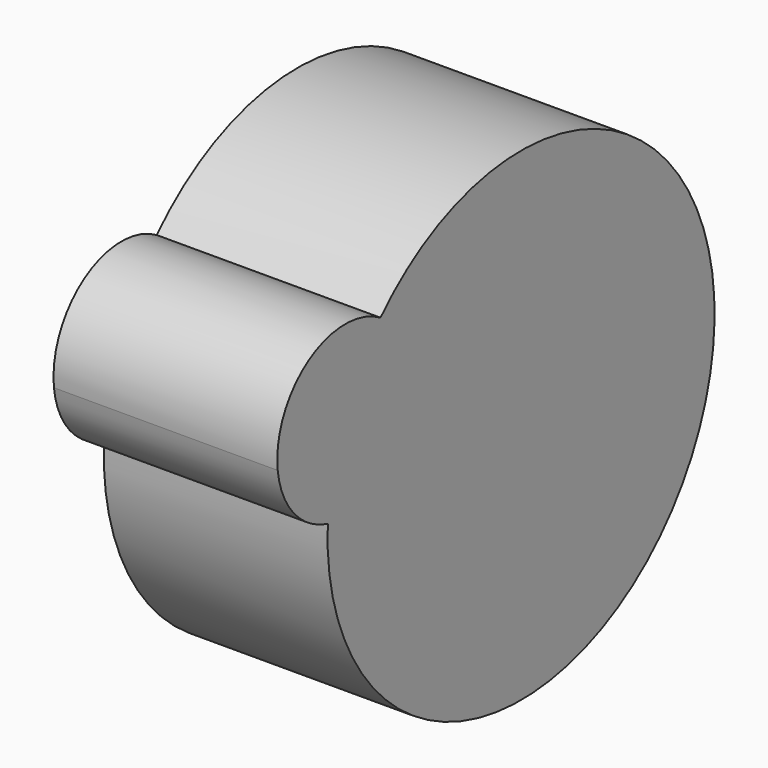
from build123d import *

# Parameters (mm, degrees)
F1_DEPTH = 1422.4


with BuildPart() as f1:
    # F0 (on Right) → F1 (new body)
    with BuildSketch(Plane.YZ):
        with BuildLine():
            ThreePointArc((352.683716, 983.357959), (-218.33658, 976.394063), (-463.668602, 460.715022))
            Line((-463.668602, 460.715022), (211.676821, 0))
            ThreePointArc((211.676821, 0), (607.181019, 445.076065), (352.683716, 983.357959))
        make_face()
        with BuildLine():
            Line((211.676821, 0), (-463.668602, 460.715022))
            ThreePointArc((-463.668602, 460.715022), (-336.002142, 169.019125), (-66.154487, 0))
            ThreePointArc((-66.154487, 0), (608.238867, -1346.800649), (2109.294862, -1471.336933))
            ThreePointArc((2109.294862, -1471.336933), (2719.920643, 821.508885), (352.683716, 983.357959))
            ThreePointArc((352.683716, 983.357959), (607.181019, 445.076065), (211.676821, 0))
        make_face()
    extrude(amount=F1_DEPTH)


solid = f1.part
